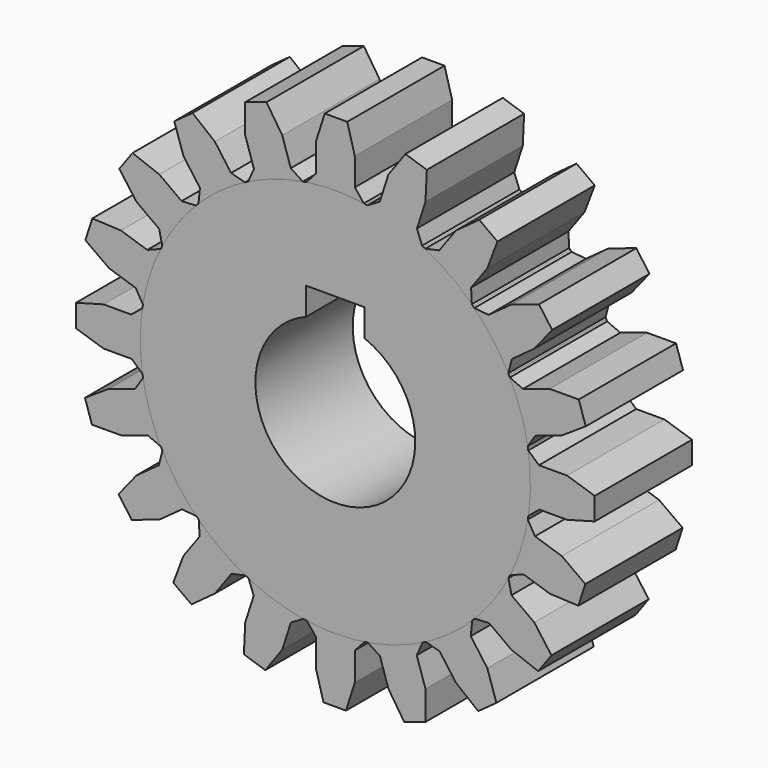
from build123d import *

# Parameters (mm, degrees)
F1_DEPTH = 25
F2_COUNT = 20
F3_R     = 16.433585
F4_DEPTH = 25
F5_W     = 12
F5_H     = 35
F6_DEPTH = 25


with BuildPart() as f1:
    # F0 (on Front) → F1 (new body)
    with BuildSketch(Plane.XZ):
        with BuildLine():
            Line((-4, 41.846842), (-5.956522, 39.65503))
            ThreePointArc((-5.956522, 39.65503), (0.047423, -40.099867), (5.862713, 39.669008))
            Line((5.862713, 39.669008), (4, 41.962255))
            Line((4, 41.962255), (4, 47.633365))
            Line((4, 47.633365), (2.444537, 53.316616))
            Line((2.444537, 53.316616), (0, 53.316616))
            Line((0, 53.316616), (-2.181215, 53.316616))
            Line((-2.181215, 53.316616), (-4, 47.633365))
            Line((-4, 47.633365), (-4, 41.846842))
        make_face()
    extrude(amount=F1_DEPTH)


with BuildPart() as f2_1:
    # F2: instance of F1
    add(f1.part.rotate(Axis((0, -25, 0), (0, -1, 0)), 1 * 360 / F2_COUNT))


with BuildPart() as f2_2:
    # F2: instance of F1
    add(f1.part.rotate(Axis((0, -25, 0), (0, -1, 0)), 2 * 360 / F2_COUNT))


with BuildPart() as f2_3:
    # F2: instance of F1
    add(f1.part.rotate(Axis((0, -25, 0), (0, -1, 0)), 3 * 360 / F2_COUNT))


with BuildPart() as f2_4:
    # F2: instance of F1
    add(f1.part.rotate(Axis((0, -25, 0), (0, -1, 0)), 4 * 360 / F2_COUNT))


with BuildPart() as f2_5:
    # F2: instance of F1
    add(f1.part.rotate(Axis((0, -25, 0), (0, -1, 0)), 5 * 360 / F2_COUNT))


with BuildPart() as f2_6:
    # F2: instance of F1
    add(f1.part.rotate(Axis((0, -25, 0), (0, -1, 0)), 6 * 360 / F2_COUNT))


with BuildPart() as f2_7:
    # F2: instance of F1
    add(f1.part.rotate(Axis((0, -25, 0), (0, -1, 0)), 7 * 360 / F2_COUNT))


with BuildPart() as f2_8:
    # F2: instance of F1
    add(f1.part.rotate(Axis((0, -25, 0), (0, -1, 0)), 8 * 360 / F2_COUNT))


with BuildPart() as f2_9:
    # F2: instance of F1
    add(f1.part.rotate(Axis((0, -25, 0), (0, -1, 0)), 9 * 360 / F2_COUNT))


with BuildPart() as f2_10:
    # F2: instance of F1
    add(f1.part.rotate(Axis((0, -25, 0), (0, -1, 0)), 10 * 360 / F2_COUNT))


with BuildPart() as f2_11:
    # F2: instance of F1
    add(f1.part.rotate(Axis((0, -25, 0), (0, -1, 0)), 11 * 360 / F2_COUNT))


with BuildPart() as f2_12:
    # F2: instance of F1
    add(f1.part.rotate(Axis((0, -25, 0), (0, -1, 0)), 12 * 360 / F2_COUNT))


with BuildPart() as f2_13:
    # F2: instance of F1
    add(f1.part.rotate(Axis((0, -25, 0), (0, -1, 0)), 13 * 360 / F2_COUNT))


with BuildPart() as f2_14:
    # F2: instance of F1
    add(f1.part.rotate(Axis((0, -25, 0), (0, -1, 0)), 14 * 360 / F2_COUNT))


with BuildPart() as f2_15:
    # F2: instance of F1
    add(f1.part.rotate(Axis((0, -25, 0), (0, -1, 0)), 15 * 360 / F2_COUNT))


with BuildPart() as f2_16:
    # F2: instance of F1
    add(f1.part.rotate(Axis((0, -25, 0), (0, -1, 0)), 16 * 360 / F2_COUNT))


with BuildPart() as f2_17:
    # F2: instance of F1
    add(f1.part.rotate(Axis((0, -25, 0), (0, -1, 0)), 17 * 360 / F2_COUNT))


with BuildPart() as f2_18:
    # F2: instance of F1
    add(f1.part.rotate(Axis((0, -25, 0), (0, -1, 0)), 18 * 360 / F2_COUNT))


with BuildPart() as f2_19:
    # F2: instance of F1
    add(f1.part.rotate(Axis((0, -25, 0), (0, -1, 0)), 19 * 360 / F2_COUNT))


with BuildPart() as f4_tool:
    # F3 (on Front) → F4 (new body, symmetric)
    with BuildSketch(Plane.XZ):
        Circle(F3_R)
    extrude(amount=F4_DEPTH, both=True)


with BuildPart() as f1_1:
    add(f1.part)

    # F4: cut by f4_tool
    add(f4_tool.part, mode=Mode.SUBTRACT)


with BuildPart() as f2_1_1:
    add(f2_1.part)

    # F4: cut by f4_tool
    add(f4_tool.part, mode=Mode.SUBTRACT)


with BuildPart() as f2_2_1:
    add(f2_2.part)

    # F4: cut by f4_tool
    add(f4_tool.part, mode=Mode.SUBTRACT)


with BuildPart() as f2_3_1:
    add(f2_3.part)

    # F4: cut by f4_tool
    add(f4_tool.part, mode=Mode.SUBTRACT)


with BuildPart() as f2_4_1:
    add(f2_4.part)

    # F4: cut by f4_tool
    add(f4_tool.part, mode=Mode.SUBTRACT)


with BuildPart() as f2_5_1:
    add(f2_5.part)

    # F4: cut by f4_tool
    add(f4_tool.part, mode=Mode.SUBTRACT)


with BuildPart() as f2_6_1:
    add(f2_6.part)

    # F4: cut by f4_tool
    add(f4_tool.part, mode=Mode.SUBTRACT)


with BuildPart() as f2_7_1:
    add(f2_7.part)

    # F4: cut by f4_tool
    add(f4_tool.part, mode=Mode.SUBTRACT)


with BuildPart() as f2_8_1:
    add(f2_8.part)

    # F4: cut by f4_tool
    add(f4_tool.part, mode=Mode.SUBTRACT)


with BuildPart() as f2_9_1:
    add(f2_9.part)

    # F4: cut by f4_tool
    add(f4_tool.part, mode=Mode.SUBTRACT)


with BuildPart() as f2_10_1:
    add(f2_10.part)

    # F4: cut by f4_tool
    add(f4_tool.part, mode=Mode.SUBTRACT)


with BuildPart() as f2_11_1:
    add(f2_11.part)

    # F4: cut by f4_tool
    add(f4_tool.part, mode=Mode.SUBTRACT)


with BuildPart() as f2_12_1:
    add(f2_12.part)

    # F4: cut by f4_tool
    add(f4_tool.part, mode=Mode.SUBTRACT)


with BuildPart() as f2_13_1:
    add(f2_13.part)

    # F4: cut by f4_tool
    add(f4_tool.part, mode=Mode.SUBTRACT)


with BuildPart() as f2_14_1:
    add(f2_14.part)

    # F4: cut by f4_tool
    add(f4_tool.part, mode=Mode.SUBTRACT)


with BuildPart() as f2_15_1:
    add(f2_15.part)

    # F4: cut by f4_tool
    add(f4_tool.part, mode=Mode.SUBTRACT)


with BuildPart() as f2_16_1:
    add(f2_16.part)

    # F4: cut by f4_tool
    add(f4_tool.part, mode=Mode.SUBTRACT)


with BuildPart() as f2_17_1:
    add(f2_17.part)

    # F4: cut by f4_tool
    add(f4_tool.part, mode=Mode.SUBTRACT)


with BuildPart() as f2_18_1:
    add(f2_18.part)

    # F4: cut by f4_tool
    add(f4_tool.part, mode=Mode.SUBTRACT)


with BuildPart() as f2_19_1:
    add(f2_19.part)

    # F4: cut by f4_tool
    add(f4_tool.part, mode=Mode.SUBTRACT)


with BuildPart() as f6_tool:
    # F5 (on Front) → F6 (new body, symmetric)
    with BuildSketch(Plane.XZ):
        with Locations((0, 3.423188)):
            Rectangle(F5_W, F5_H)
    extrude(amount=F6_DEPTH, both=True)


with BuildPart() as f1_2:
    add(f1_1.part)

    # F6: cut by f6_tool
    add(f6_tool.part, mode=Mode.SUBTRACT)


with BuildPart() as f2_1_2:
    add(f2_1_1.part)

    # F6: cut by f6_tool
    add(f6_tool.part, mode=Mode.SUBTRACT)


with BuildPart() as f2_2_2:
    add(f2_2_1.part)

    # F6: cut by f6_tool
    add(f6_tool.part, mode=Mode.SUBTRACT)


with BuildPart() as f2_3_2:
    add(f2_3_1.part)

    # F6: cut by f6_tool
    add(f6_tool.part, mode=Mode.SUBTRACT)


with BuildPart() as f2_4_2:
    add(f2_4_1.part)

    # F6: cut by f6_tool
    add(f6_tool.part, mode=Mode.SUBTRACT)


with BuildPart() as f2_5_2:
    add(f2_5_1.part)

    # F6: cut by f6_tool
    add(f6_tool.part, mode=Mode.SUBTRACT)


with BuildPart() as f2_6_2:
    add(f2_6_1.part)

    # F6: cut by f6_tool
    add(f6_tool.part, mode=Mode.SUBTRACT)


with BuildPart() as f2_7_2:
    add(f2_7_1.part)

    # F6: cut by f6_tool
    add(f6_tool.part, mode=Mode.SUBTRACT)


with BuildPart() as f2_8_2:
    add(f2_8_1.part)

    # F6: cut by f6_tool
    add(f6_tool.part, mode=Mode.SUBTRACT)


with BuildPart() as f2_9_2:
    add(f2_9_1.part)

    # F6: cut by f6_tool
    add(f6_tool.part, mode=Mode.SUBTRACT)


with BuildPart() as f2_10_2:
    add(f2_10_1.part)

    # F6: cut by f6_tool
    add(f6_tool.part, mode=Mode.SUBTRACT)


with BuildPart() as f2_11_2:
    add(f2_11_1.part)

    # F6: cut by f6_tool
    add(f6_tool.part, mode=Mode.SUBTRACT)


with BuildPart() as f2_12_2:
    add(f2_12_1.part)

    # F6: cut by f6_tool
    add(f6_tool.part, mode=Mode.SUBTRACT)


with BuildPart() as f2_13_2:
    add(f2_13_1.part)

    # F6: cut by f6_tool
    add(f6_tool.part, mode=Mode.SUBTRACT)


with BuildPart() as f2_14_2:
    add(f2_14_1.part)

    # F6: cut by f6_tool
    add(f6_tool.part, mode=Mode.SUBTRACT)


with BuildPart() as f2_15_2:
    add(f2_15_1.part)

    # F6: cut by f6_tool
    add(f6_tool.part, mode=Mode.SUBTRACT)


with BuildPart() as f2_16_2:
    add(f2_16_1.part)

    # F6: cut by f6_tool
    add(f6_tool.part, mode=Mode.SUBTRACT)


with BuildPart() as f2_17_2:
    add(f2_17_1.part)

    # F6: cut by f6_tool
    add(f6_tool.part, mode=Mode.SUBTRACT)


with BuildPart() as f2_18_2:
    add(f2_18_1.part)

    # F6: cut by f6_tool
    add(f6_tool.part, mode=Mode.SUBTRACT)


with BuildPart() as f2_19_2:
    add(f2_19_1.part)

    # F6: cut by f6_tool
    add(f6_tool.part, mode=Mode.SUBTRACT)


solid = Compound([f1_2.part, f2_1_2.part, f2_2_2.part, f2_3_2.part, f2_4_2.part, f2_5_2.part, f2_6_2.part, f2_7_2.part, f2_8_2.part, f2_9_2.part, f2_10_2.part, f2_11_2.part, f2_12_2.part, f2_13_2.part, f2_14_2.part, f2_15_2.part, f2_16_2.part, f2_17_2.part, f2_18_2.part, f2_19_2.part])
